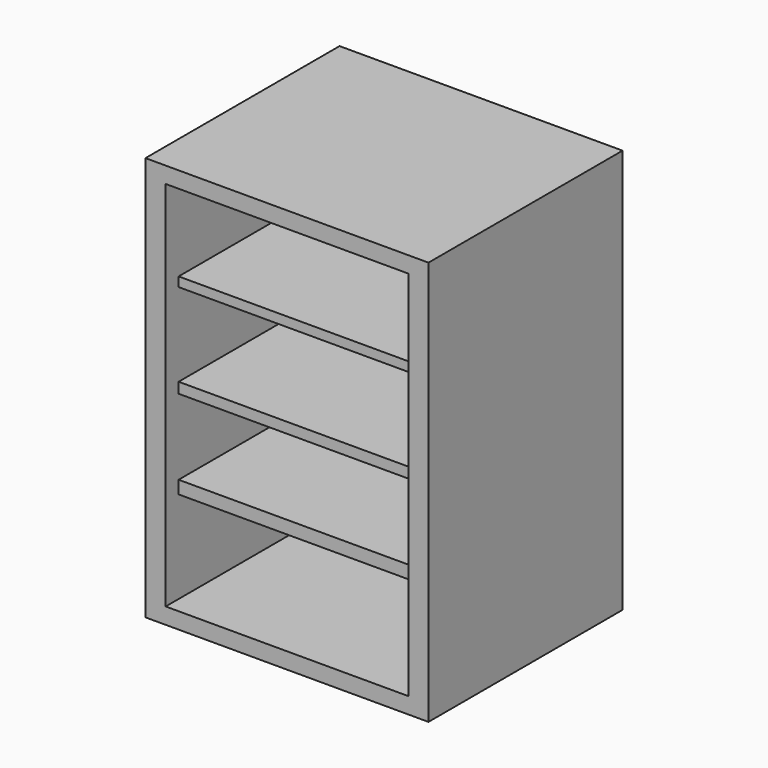
from build123d import *

# Parameters (mm, degrees)
F0_W     = 88.9
F0_H     = 127
F1_DEPTH = 76.2
F0_W_2   = 76.2
F0_H_2   = 4.0558092296
F0_H_3   = 3.3183873165
F0_H_4   = 2.9496774077
F2_DEPTH = 71.12
F0_H_5   = 27.6327425224
F0_H_6   = 26.1783864116
F0_H_7   = 23.7817749148
F0_H_8   = 28.9232221973
F3_DEPTH = 6.35


with BuildPart() as f1:
    # F0 (on Front) → F1 (new body)
    with BuildSketch(Plane.XZ):
        with Locations((1.440508941, 0)):
            Rectangle(F0_W, F0_H)
        Polygon((-36.659491059, 58.42), (39.540508941, 58.42), (39.540508941, 30.7872574776), (39.540508941, 27.8375800699), (39.540508941, 1.6591936583), (39.540508941, -1.6591936583), (39.540508941, -25.4409685731), (39.540508941, -29.4967778027), (39.540508941, -58.42), (-36.659491059, -58.42), (-36.659491059, -29.4967778027), (-36.659491059, -25.4409685731), (-36.659491059, -1.6591936583), (-36.659491059, 1.6591936583), (-36.659491059, 27.8375800699), (-36.659491059, 30.7872574776), align=None, mode=Mode.SUBTRACT)
    extrude(amount=F1_DEPTH)

    # F0 (on Front) → F2 (join)
    with BuildSketch(Plane.XZ):
        with Locations((1.440508941, -27.4688731879)):
            Rectangle(F0_W_2, F0_H_2)
        with Locations((1.440508941, 0)):
            Rectangle(F0_W_2, F0_H_3)
        with Locations((1.440508941, 29.3124187738)):
            Rectangle(F0_W_2, F0_H_4)
    extrude(amount=F2_DEPTH)

    # F0 (on Front) → F3 (join)
    with BuildSketch(Plane.XZ):
        with Locations((1.440508941, 44.6036287388)):
            Rectangle(F0_W_2, F0_H_5)
        with Locations((1.440508941, 14.7483868641)):
            Rectangle(F0_W_2, F0_H_6)
        with Locations((1.440508941, -13.5500811157)):
            Rectangle(F0_W_2, F0_H_7)
        with Locations((1.440508941, -43.9583889014)):
            Rectangle(F0_W_2, F0_H_8)
    extrude(amount=F3_DEPTH)


solid = f1.part
